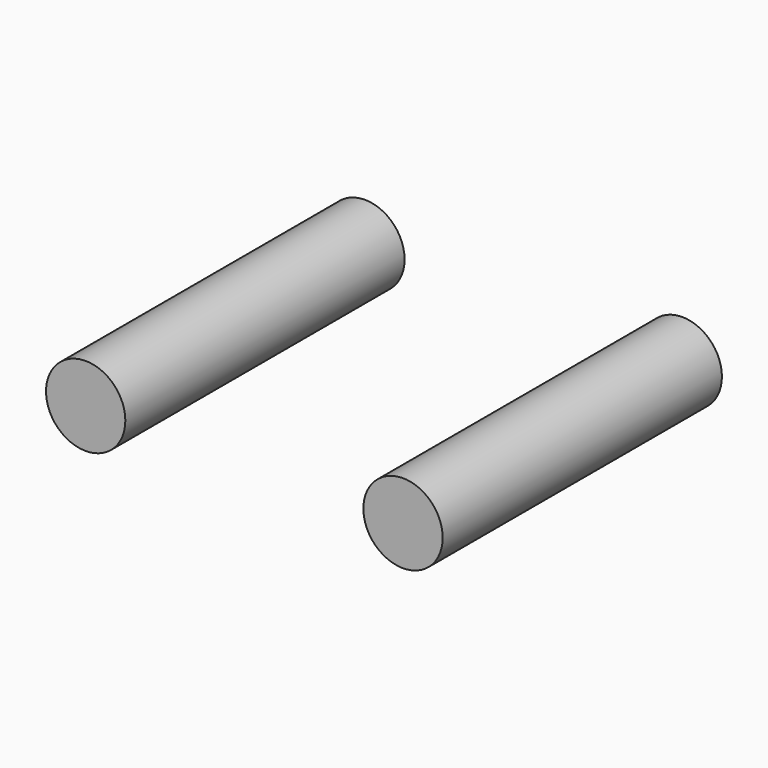
from build123d import *

# Parameters (mm, degrees)
CYLINDER011_R     = 2.5
CYLINDER011_DEPTH = 22
CYLINDER013_R     = 2.5
CYLINDER013_DEPTH = 22


with BuildPart() as cylinder011:
    # Cylinder011 → Cylinder011 (new body)
    with BuildSketch(Plane(origin=(-10, 0, 23), x_dir=(1, 0, 0), z_dir=(0, -1, 0))):
        Circle(CYLINDER011_R)
    extrude(amount=CYLINDER011_DEPTH)


with BuildPart() as fusion003:
    # Cylinder013 → Cylinder013 (new body)
    with BuildSketch(Plane(origin=(10, 0, 23), x_dir=(1, 0, 0), z_dir=(0, -1, 0))):
        Circle(CYLINDER013_R)
    extrude(amount=CYLINDER013_DEPTH)

    # Fusion003: union Cylinder011
    add(cylinder011.part)


solid = fusion003.part
